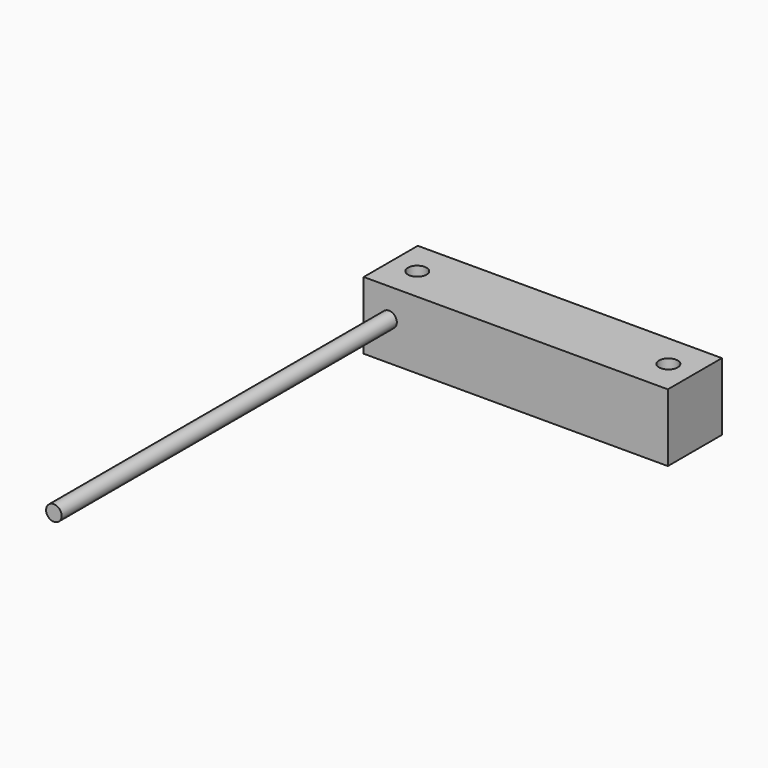
from build123d import *

# Parameters (mm, degrees)
F0_W     = 45.72
F0_H     = 10.16
F1_DEPTH = 10.16
F2_R     = 1.409591
F3_DEPTH = 25.4
F4_R     = 1.168764
F5_DEPTH = 62.992


with BuildPart() as f1:
    # F0 (on Top) → F1 (new body)
    with BuildSketch(Plane.XY):
        Rectangle(F0_W, F0_H)
    extrude(amount=F1_DEPTH)

    # F2 (on face) → F3 (cut)
    with BuildSketch(Plane.XY.offset(10.16)):
        with Locations((-18.874988, 0)):
            Circle(F2_R)
        with Locations((18.874988, 0)):
            Circle(F2_R)
    extrude(amount=-F3_DEPTH, mode=Mode.SUBTRACT)

    # F4 (on face) → F5 (join)
    with BuildSketch(Plane.XZ.offset(5.08)):
        with Locations((-19.05, 5.778021)):
            Circle(F4_R)
    extrude(amount=F5_DEPTH)


solid = f1.part
